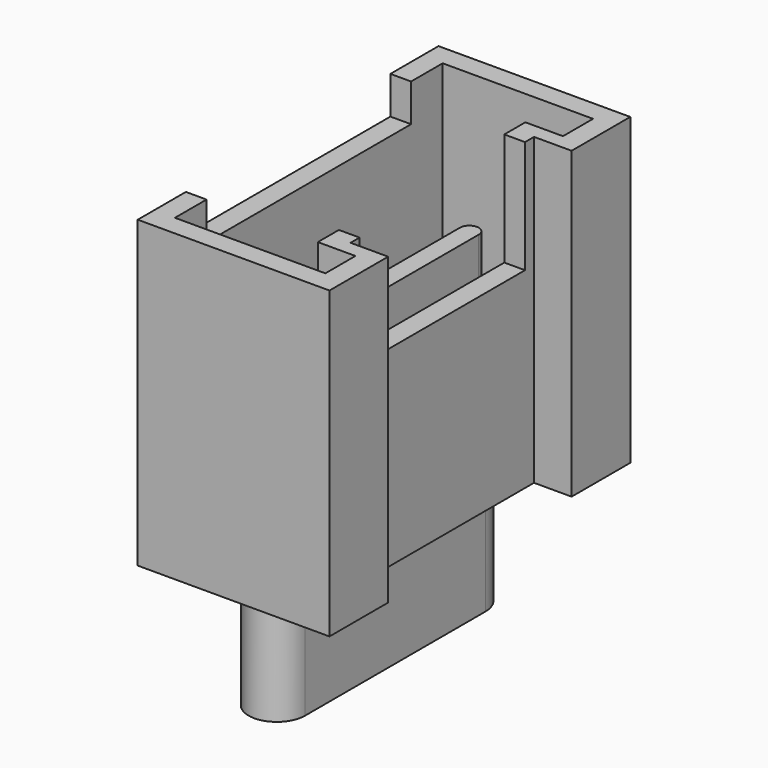
from build123d import *

# Parameters (mm, degrees)
PAD010_DEPTH            = 8.1
POCKET007_DEPTH         = 7
SKETCH024_W             = 6.8
SKETCH024_H             = 5
POCKET009_DEPTH         = 1
SKETCH018_W             = 5.5
SKETCH018_H             = 3
POCKET010_DEPTH         = 3
PAD013_DEPTH            = 4
PAD011_DEPTH            = 3.4
BODY014_PLACEMENT_ANGLE = 90


with BuildPart() as part:
    # Sketch022 → Pad010 (new body)
    with BuildSketch(Plane.XY):
        Polygon((-5, 0), (-3.05, 0), (-3.05, 1), (3.05, 1), (3.05, 0), (5, 0), (5, 5.1), (-5, 5.1), align=None)
    extrude(amount=PAD010_DEPTH)

    # Sketch021 (on Face10 of Pad010) → Pocket007 (cut)
    with BuildSketch(Plane.XY.offset(8.1)):
        Polygon((-4.45, 0.55), (-3.45, 0.55), (-3.45, 1.55), (3.45, 1.55), (3.45, 0.55), (4.45, 0.55), (4.45, 4.55), (-4.45, 4.55), align=None)
    extrude(amount=-POCKET007_DEPTH, mode=Mode.SUBTRACT)

    # Sketch024 (on Face5 of Pocket007) → Pocket009 (cut)
    with BuildSketch(Plane.XY.offset(8.1)):
        with Locations((0, 5.5)):
            Rectangle(SKETCH024_W, SKETCH024_H)
    extrude(amount=-POCKET009_DEPTH, mode=Mode.SUBTRACT)

    # Sketch018 (on Face5 of Pocket009) → Pocket010 (cut)
    with BuildSketch(Plane.XY.offset(8.1)):
        with Locations((0, 1.5)):
            Rectangle(SKETCH018_W, SKETCH018_H)
    extrude(amount=-POCKET010_DEPTH, mode=Mode.SUBTRACT)

    # Sketch023 (on Face26 of Pocket010) → Pad013 (join)
    with BuildSketch(Plane.XY.offset(1.1)):
        with BuildLine():
            ThreePointArc((-3.4, 3.25), (-3.65, 3), (-3.4, 2.75))
            Line((-3.4, 2.75), (3.4, 2.75))
            ThreePointArc((3.4, 2.75), (3.65, 3), (3.4, 3.25))
            Line((-3.4, 3.25), (3.4, 3.25))
        make_face()
    extrude(amount=PAD013_DEPTH)

    # Sketch019 → Pad011 (join)
    with BuildSketch(Plane.XY):
        with BuildLine():
            ThreePointArc((-3, 3.75), (-3.75, 3), (-3, 2.25))
            Line((-3, 2.25), (3, 2.25))
            ThreePointArc((3, 2.25), (3.75, 3), (3, 3.75))
            Line((-3, 3.75), (3, 3.75))
        make_face()
    extrude(amount=-PAD011_DEPTH)


with BuildPart() as part_1:
    # Body014 placement: moved
    add(part.part.moved(Location((-13.8, 0, 1.6))).rotate(Axis((-13.8, 0, 1.6), (0, 0, 1)), BODY014_PLACEMENT_ANGLE))


with BuildPart() as part_2:
    # Clone006 placement: moved
    add(part_1.part.moved(Location((-0.2, 0, 0))))


with BuildPart() as part_3:
    # Body019 placement: moved
    add(part_2.part.moved(Location((6.4, 0, 0))))


solid = part_3.part
